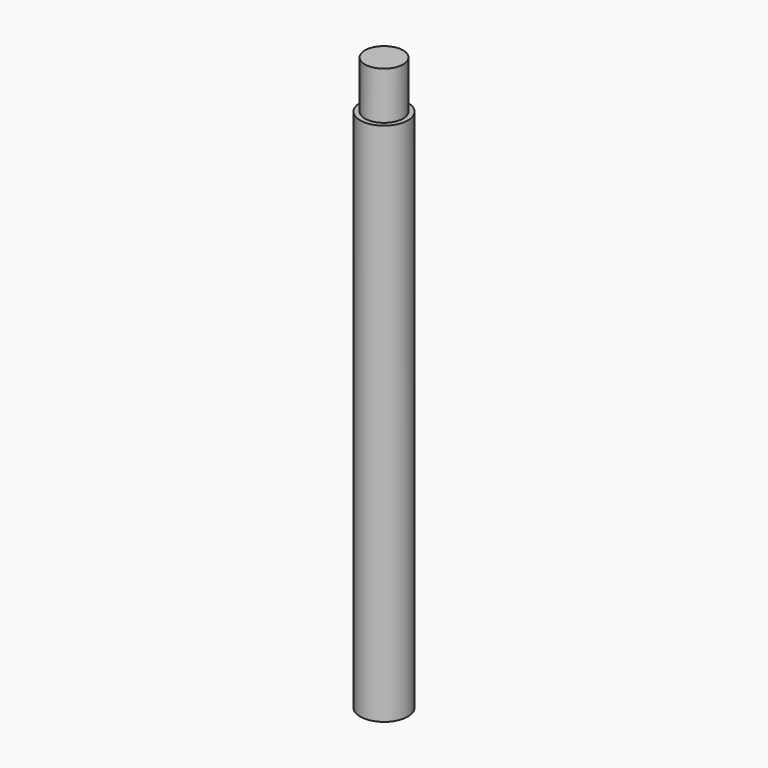
from build123d import *

# Parameters (mm, degrees)
F0_R     = 25.4
F1_DEPTH = 609.6
F2_R     = 25.4
F2_R_2   = 20.32
F3_DEPTH = 50.8


with BuildPart() as f1:
    # F0 (on Top) → F1 (new body)
    with BuildSketch(Plane.XY):
        Circle(F0_R)
    extrude(amount=F1_DEPTH)

    # F2 (on face) → F3 (cut)
    with BuildSketch(Plane.XY.offset(609.6)):
        Circle(F2_R)
        Circle(F2_R_2, mode=Mode.SUBTRACT)
    extrude(amount=-F3_DEPTH, mode=Mode.SUBTRACT)


solid = f1.part
